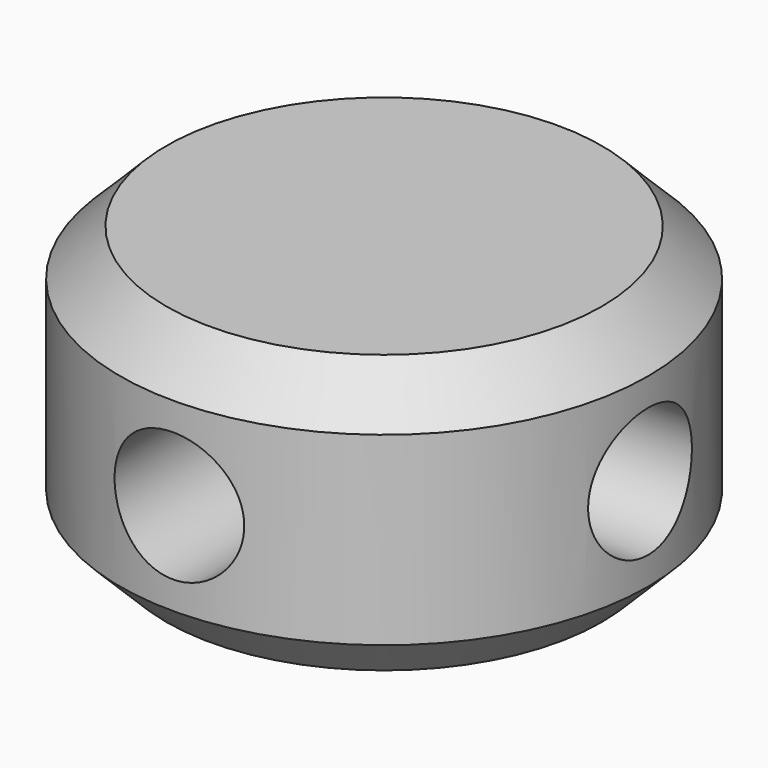
from build123d import *

# Parameters (mm, degrees)
CYLINDER005_R           = 1.4
CYLINDER005_DEPTH       = 18
CYLINDER005_ROLL_ANGLE  = 90
CYLINDER012_R           = 1.4
CYLINDER012_DEPTH       = 18
CYLINDER012_PITCH_ANGLE = 90
CYLINDER004_R           = 5.7
CYLINDER004_DEPTH       = 6
CHAMFER_SIZE            = 1


with BuildPart() as cylinder005:
    # Cylinder005 → Cylinder005 (new body)
    with BuildSketch(Plane.XY):
        Circle(CYLINDER005_R)
    extrude(amount=CYLINDER005_DEPTH)


with BuildPart() as cylinder005_1:
    # Cylinder005 roll: moved
    add(cylinder005.part.rotate(Axis((0, 0, 0), (1, 0, 0)), CYLINDER005_ROLL_ANGLE))


with BuildPart() as cylinder005_2:
    # Cylinder005 placement: moved
    add(cylinder005_1.part.moved(Location((0, 9, 3))))


with BuildPart() as joiner_pins:
    # Cylinder012 → Cylinder012 (new body)
    with BuildSketch(Plane.XY):
        Circle(CYLINDER012_R)
    extrude(amount=CYLINDER012_DEPTH)


with BuildPart() as joiner_pins_1:
    # Cylinder012 pitch: moved
    add(joiner_pins.part.rotate(Axis((0, 0, 0), (0, 1, 0)), CYLINDER012_PITCH_ANGLE))


with BuildPart() as joiner_pins_2:
    # Cylinder012 placement: moved
    add(joiner_pins_1.part.moved(Location((-9, 0, 3))))

    # Fusion002: union Cylinder005
    add(cylinder005_2.part)


with BuildPart() as joiner:
    # Cylinder004 → Cylinder004 (new body)
    with BuildSketch(Plane.XY):
        Circle(CYLINDER004_R)
    extrude(amount=CYLINDER004_DEPTH)

    # Cut009: cut joiner pins
    add(joiner_pins_2.part, mode=Mode.SUBTRACT)

    # Chamfer
    chamfer_edges = [joiner.edges().sort_by_distance(p)[0] for p in [
        (-5.7, 0, 0),
        (-5.7, 0, 6),
    ]]
    chamfer(chamfer_edges, length=CHAMFER_SIZE)


with BuildPart() as joiner_1:
    # Chamfer placement: moved
    add(joiner.part.moved(Location((20, 0, 0))))


solid = joiner_1.part
